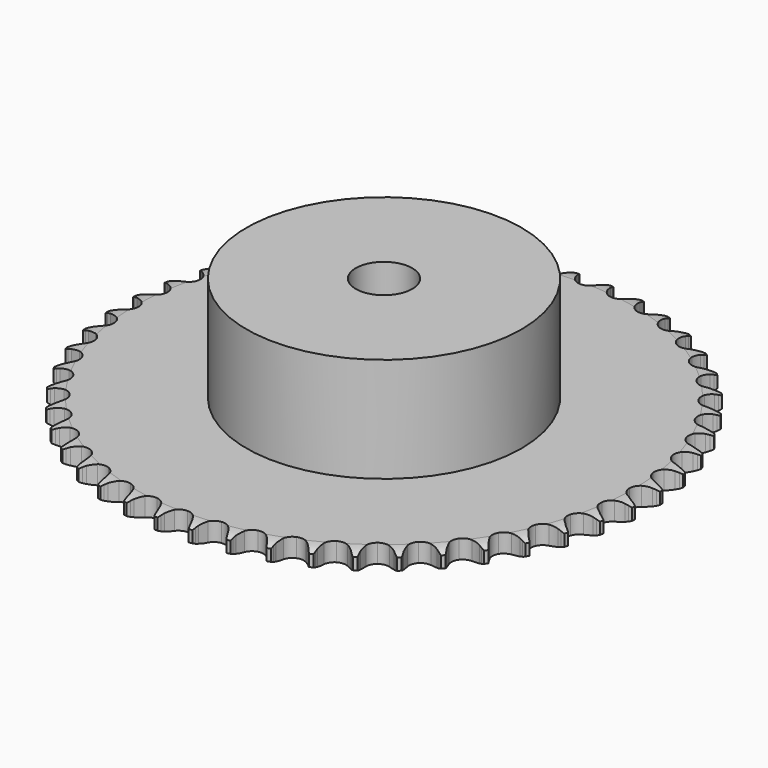
from build123d import *

# Parameters (mm, degrees)
PAD_DEPTH         = 5.3
SKETCH001_R       = 39
PAD001_DEPTH      = 35
SKETCH002_R       = 8
POCKET_DEPTH      = 0.001
POCKET_DEPTH_BACK = 35.001


with BuildPart() as part:
    # Sprocket → Pad (new body)
    with BuildSketch(Plane.XY):
        with BuildLine():
            ThreePointArc((-4.949679, 75.51751), (-4.428239, 74.767147), (-4.048686, 73.935952))
            Line((-4.048686, 73.935952), (-3.739672, 73.059272))
            ThreePointArc((-3.739672, 73.059272), (-3.250967, 71.941999), (-2.603989, 70.908293))
            ThreePointArc((-2.603989, 70.908293), (-1.459644, 69.937388), (0, 69.588642))
            ThreePointArc((0, 69.588642), (1.459644, 69.937388), (2.603989, 70.908293))
            ThreePointArc((2.603989, 70.908293), (3.250967, 71.941999), (3.739672, 73.059272))
            Line((3.739672, 73.059272), (4.048686, 73.935952))
            ThreePointArc((4.048686, 73.935952), (4.428239, 74.767147), (4.949679, 75.51751))
            ThreePointArc((4.949679, 75.51751), (5.368716, 74.705504), (5.636529, 73.83188))
            Line((5.636529, 73.83188), (5.82847, 72.922365))
            ThreePointArc((5.82847, 72.922365), (6.167161, 71.750862), (6.673677, 70.641551))
            ThreePointArc((6.673677, 70.641551), (7.681505, 69.529585), (9.08314, 68.993301))
            ThreePointArc((9.08314, 68.993301), (10.575817, 69.148542), (11.837101, 69.961774))
            Line((11.837101, 69.961774), (13.243827, 71.946114))
            ThreePointArc((13.243827, 71.946114), (13.442628, 72.366427), (13.664628, 72.774961))
            ThreePointArc((13.664628, 72.774961), (14.149426, 73.549502), (14.764347, 74.225384))
            ThreePointArc((14.764347, 74.225384), (15.073811, 73.365631), (15.225302, 72.464523))
            Line((15.225302, 72.464523), (15.296885, 71.537736))
            ThreePointArc((15.296885, 71.537736), (15.479767, 70.332047), (15.837156, 69.166113))
            ThreePointArc((15.837156, 69.166113), (16.69122, 67.932113), (18.010866, 67.217466))
            ThreePointArc((18.010866, 67.217466), (19.511036, 67.176545), (20.867677, 67.818189))
            Line((20.867677, 67.818189), (22.521376, 69.601939))
            ThreePointArc((22.521376, 69.601939), (22.773338, 69.992707), (23.046763, 70.368769))
            ThreePointArc((23.046763, 70.368769), (23.628512, 71.073405), (24.326393, 71.663242))
            ThreePointArc((24.326393, 71.663242), (24.520988, 70.77045), (24.553566, 69.857278))
            Line((24.553566, 69.857278), (24.503567, 68.929076))
            ThreePointArc((24.503567, 68.929076), (24.52751, 67.709832), (24.729656, 66.507224))
            ThreePointArc((24.729656, 66.507224), (25.415345, 65.172303), (26.63042, 64.291522))
            ThreePointArc((26.63042, 64.291522), (28.112415, 64.05514), (29.541201, 64.514217))
            Line((29.541201, 64.514217), (31.413579, 66.066855))
            ThreePointArc((31.413579, 66.066855), (31.714391, 66.421392), (32.034563, 66.758548))
            ThreePointArc((32.034563, 66.758548), (32.703308, 67.381223), (33.472207, 67.874921))
            ThreePointArc((33.472207, 67.874921), (33.548605, 66.964368), (33.461711, 66.054756))
            Line((33.461711, 66.054756), (33.290985, 65.141021))
            ThreePointArc((33.290985, 65.141021), (33.15558, 63.929083), (33.199025, 62.710378))
            ThreePointArc((33.199025, 62.710378), (33.704605, 61.297376), (34.794321, 60.265532))
            ThreePointArc((34.794321, 60.265532), (36.232782, 59.837733), (37.709267, 60.106388))
            Line((37.709267, 60.106388), (39.768287, 61.401349))
            ThreePointArc((39.768287, 61.401349), (40.112801, 61.713589), (40.474242, 62.00607))
            ThreePointArc((40.474242, 62.00607), (41.218541, 62.536129), (42.045303, 62.925242))
            ThreePointArc((42.045303, 62.925242), (42.002196, 62.012507), (41.797317, 61.122019))
            Line((41.797317, 61.122019), (41.508786, 60.238385))
            ThreePointArc((41.508786, 60.238385), (41.216349, 59.054489), (41.10035, 57.840539))
            ThreePointArc((41.10035, 57.840539), (41.417171, 56.373635), (42.362881, 55.208381))
            ThreePointArc((42.362881, 55.208381), (43.733197, 54.596485), (45.232117, 54.670123))
            Line((45.232117, 54.670123), (47.442548, 55.685249))
            ThreePointArc((47.442548, 55.685249), (47.82487, 55.94985), (48.221395, 56.192651))
            ThreePointArc((48.221395, 56.192651), (49.028514, 56.621024), (49.898992, 56.898895))
            ThreePointArc((49.898992, 56.898895), (49.737118, 55.999594), (49.41776, 55.143467))
            Line((49.41776, 55.143467), (49.016359, 54.305054))
            ThreePointArc((49.016359, 54.305054), (48.571895, 53.169456), (48.298436, 51.981033))
            ThreePointArc((48.298436, 51.981033), (48.421077, 50.485325), (49.2066, 49.2066))
            ThreePointArc((49.2066, 49.2066), (50.485325, 48.421077), (51.981033, 48.298436))
            Line((51.981033, 48.298436), (54.305054, 49.016359))
            ThreePointArc((54.305054, 49.016359), (54.718643, 49.228793), (55.143467, 49.41776))
            ThreePointArc((55.143467, 49.41776), (55.999594, 49.737118), (56.898895, 49.898992))
            ThreePointArc((56.898895, 49.898992), (56.621024, 49.028514), (56.192651, 48.221395))
            Line((56.192651, 48.221395), (55.685249, 47.442548))
            ThreePointArc((55.685249, 47.442548), (55.096362, 46.37468), (54.670123, 45.232117))
            ThreePointArc((54.670123, 45.232117), (54.596485, 43.733197), (55.208381, 42.362881))
            ThreePointArc((55.208381, 42.362881), (56.373635, 41.417171), (57.840539, 41.10035))
            Line((57.840539, 41.10035), (60.238385, 41.508786))
            ThreePointArc((60.238385, 41.508786), (60.676164, 41.665418), (61.122019, 41.797317))
            ThreePointArc((61.122019, 41.797317), (62.012507, 42.002196), (62.925242, 42.045303))
            ThreePointArc((62.925242, 42.045303), (62.536129, 41.218541), (62.00607, 40.474242))
            Line((62.00607, 40.474242), (61.401349, 39.768287))
            ThreePointArc((61.401349, 39.768287), (60.678116, 38.78642), (60.106388, 37.709267))
            ThreePointArc((60.106388, 37.709267), (59.837733, 36.232782), (60.265532, 34.794321))
            ThreePointArc((60.265532, 34.794321), (61.297376, 33.704605), (62.710378, 33.199025))
            Line((62.710378, 33.199025), (65.141021, 33.290985))
            ThreePointArc((65.141021, 33.290985), (65.595499, 33.389136), (66.054756, 33.461711))
            ThreePointArc((66.054756, 33.461711), (66.964368, 33.548605), (67.874921, 33.472207))
            ThreePointArc((67.874921, 33.472207), (67.381223, 32.703308), (66.758548, 32.034563))
            Line((66.758548, 32.034563), (66.066855, 31.413579))
            ThreePointArc((66.066855, 31.413579), (65.22165, 30.534513), (64.514217, 29.541201))
            ThreePointArc((64.514217, 29.541201), (64.05514, 28.112415), (64.291522, 26.63042))
            ThreePointArc((64.291522, 26.63042), (65.172303, 25.415345), (66.507224, 24.729656))
            Line((66.507224, 24.729656), (68.929076, 24.503567))
            ThreePointArc((68.929076, 24.503567), (69.392478, 24.541556), (69.857278, 24.553566))
            ThreePointArc((69.857278, 24.553566), (70.77045, 24.520988), (71.663242, 24.326393))
            ThreePointArc((71.663242, 24.326393), (71.073405, 23.628512), (70.368769, 23.046763))
            Line((70.368769, 23.046763), (69.601939, 22.521376))
            ThreePointArc((69.601939, 22.521376), (68.649223, 21.760152), (67.818189, 20.867677))
            ThreePointArc((67.818189, 20.867677), (67.176545, 19.511036), (67.217466, 18.010866))
            ThreePointArc((67.217466, 18.010866), (67.932113, 16.69122), (69.166113, 15.837156))
            Line((69.166113, 15.837156), (71.537736, 15.296885))
            ThreePointArc((71.537736, 15.296885), (72.002131, 15.274064), (72.464523, 15.225302))
            ThreePointArc((72.464523, 15.225302), (73.365631, 15.073811), (74.225384, 14.764347))
            ThreePointArc((74.225384, 14.764347), (73.549502, 14.149426), (72.774961, 13.664628))
            Line((72.774961, 13.664628), (71.946114, 13.243827))
            ThreePointArc((71.946114, 13.243827), (70.902189, 12.61347), (69.961774, 11.837101))
            ThreePointArc((69.961774, 11.837101), (69.148542, 10.575817), (68.993301, 9.08314))
            ThreePointArc((68.993301, 9.08314), (69.529585, 7.681505), (70.641551, 6.673677))
            Line((70.641551, 6.673677), (72.922365, 5.82847))
            ThreePointArc((72.922365, 5.82847), (73.379808, 5.745228), (73.83188, 5.636529))
            ThreePointArc((73.83188, 5.636529), (74.705504, 5.368716), (75.51751, 4.949679))
            ThreePointArc((75.51751, 4.949679), (74.767147, 4.428239), (73.935952, 4.048686))
            Line((73.935952, 4.048686), (73.059272, 3.739672))
            ThreePointArc((73.059272, 3.739672), (71.941999, 3.250967), (70.908293, 2.603989))
            ThreePointArc((70.908293, 2.603989), (69.937388, 1.459644), (69.588642, 0))
            ThreePointArc((69.588642, 0), (69.937388, -1.459644), (70.908293, -2.603989))
            Line((70.908293, -2.603989), (73.059272, -3.739672))
            ThreePointArc((73.059272, -3.739672), (73.501937, -3.88191), (73.935952, -4.048686))
            ThreePointArc((73.935952, -4.048686), (74.767147, -4.428239), (75.51751, -4.949679))
            ThreePointArc((75.51751, -4.949679), (74.705504, -5.368716), (73.83188, -5.636529))
            Line((73.83188, -5.636529), (72.922365, -5.82847))
            ThreePointArc((72.922365, -5.82847), (71.750862, -6.167161), (70.641551, -6.673677))
            ThreePointArc((70.641551, -6.673677), (69.529585, -7.681505), (68.993301, -9.08314))
            ThreePointArc((68.993301, -9.08314), (69.148542, -10.575817), (69.961774, -11.837101))
            Line((69.961774, -11.837101), (71.946114, -13.243827))
            ThreePointArc((71.946114, -13.243827), (72.366427, -13.442628), (72.774961, -13.664628))
            ThreePointArc((72.774961, -13.664628), (73.549502, -14.149426), (74.225384, -14.764347))
            ThreePointArc((74.225384, -14.764347), (73.365631, -15.073811), (72.464523, -15.225302))
            Line((72.464523, -15.225302), (71.537736, -15.296885))
            ThreePointArc((71.537736, -15.296885), (70.332047, -15.479767), (69.166113, -15.837156))
            ThreePointArc((69.166113, -15.837156), (67.932113, -16.69122), (67.217466, -18.010866))
            ThreePointArc((67.217466, -18.010866), (67.176545, -19.511036), (67.818189, -20.867677))
            Line((67.818189, -20.867677), (69.601939, -22.521376))
            ThreePointArc((69.601939, -22.521376), (69.992707, -22.773338), (70.368769, -23.046763))
            ThreePointArc((70.368769, -23.046763), (71.073405, -23.628512), (71.663242, -24.326393))
            ThreePointArc((71.663242, -24.326393), (70.77045, -24.520988), (69.857278, -24.553566))
            Line((69.857278, -24.553566), (68.929076, -24.503567))
            ThreePointArc((68.929076, -24.503567), (67.709832, -24.52751), (66.507224, -24.729656))
            ThreePointArc((66.507224, -24.729656), (65.172303, -25.415345), (64.291522, -26.63042))
            ThreePointArc((64.291522, -26.63042), (64.05514, -28.112415), (64.514217, -29.541201))
            Line((64.514217, -29.541201), (66.066855, -31.413579))
            ThreePointArc((66.066855, -31.413579), (66.421392, -31.714391), (66.758548, -32.034563))
            ThreePointArc((66.758548, -32.034563), (67.381223, -32.703308), (67.874921, -33.472207))
            ThreePointArc((67.874921, -33.472207), (66.964368, -33.548605), (66.054756, -33.461711))
            Line((66.054756, -33.461711), (65.141021, -33.290985))
            ThreePointArc((65.141021, -33.290985), (63.929083, -33.15558), (62.710378, -33.199025))
            ThreePointArc((62.710378, -33.199025), (61.297376, -33.704605), (60.265532, -34.794321))
            ThreePointArc((60.265532, -34.794321), (59.837733, -36.232782), (60.106388, -37.709267))
            Line((60.106388, -37.709267), (61.401349, -39.768287))
            ThreePointArc((61.401349, -39.768287), (61.713589, -40.112801), (62.00607, -40.474242))
            ThreePointArc((62.00607, -40.474242), (62.536129, -41.218541), (62.925242, -42.045303))
            ThreePointArc((62.925242, -42.045303), (62.012507, -42.002196), (61.122019, -41.797317))
            Line((61.122019, -41.797317), (60.238385, -41.508786))
            ThreePointArc((60.238385, -41.508786), (59.054489, -41.216349), (57.840539, -41.10035))
            ThreePointArc((57.840539, -41.10035), (56.373635, -41.417171), (55.208381, -42.362881))
            ThreePointArc((55.208381, -42.362881), (54.596485, -43.733197), (54.670123, -45.232117))
            Line((54.670123, -45.232117), (55.685249, -47.442548))
            ThreePointArc((55.685249, -47.442548), (55.94985, -47.82487), (56.192651, -48.221395))
            ThreePointArc((56.192651, -48.221395), (56.621024, -49.028514), (56.898895, -49.898992))
            ThreePointArc((56.898895, -49.898992), (55.999594, -49.737118), (55.143467, -49.41776))
            Line((55.143467, -49.41776), (54.305054, -49.016359))
            ThreePointArc((54.305054, -49.016359), (53.169456, -48.571895), (51.981033, -48.298436))
            ThreePointArc((51.981033, -48.298436), (50.485325, -48.421077), (49.2066, -49.2066))
            ThreePointArc((49.2066, -49.2066), (48.421077, -50.485325), (48.298436, -51.981033))
            Line((48.298436, -51.981033), (49.016359, -54.305054))
            ThreePointArc((49.016359, -54.305054), (49.228793, -54.718643), (49.41776, -55.143467))
            ThreePointArc((49.41776, -55.143467), (49.737118, -55.999594), (49.898992, -56.898895))
            ThreePointArc((49.898992, -56.898895), (49.028514, -56.621024), (48.221395, -56.192651))
            Line((48.221395, -56.192651), (47.442548, -55.685249))
            ThreePointArc((47.442548, -55.685249), (46.37468, -55.096362), (45.232117, -54.670123))
            ThreePointArc((45.232117, -54.670123), (43.733197, -54.596485), (42.362881, -55.208381))
            ThreePointArc((42.362881, -55.208381), (41.417171, -56.373635), (41.10035, -57.840539))
            Line((41.10035, -57.840539), (41.508786, -60.238385))
            ThreePointArc((41.508786, -60.238385), (41.665418, -60.676164), (41.797317, -61.122019))
            ThreePointArc((41.797317, -61.122019), (42.002196, -62.012507), (42.045303, -62.925242))
            ThreePointArc((42.045303, -62.925242), (41.218541, -62.536129), (40.474242, -62.00607))
            Line((40.474242, -62.00607), (39.768287, -61.401349))
            ThreePointArc((39.768287, -61.401349), (38.78642, -60.678116), (37.709267, -60.106388))
            ThreePointArc((37.709267, -60.106388), (36.232782, -59.837733), (34.794321, -60.265532))
            ThreePointArc((34.794321, -60.265532), (33.704605, -61.297376), (33.199025, -62.710378))
            Line((33.199025, -62.710378), (33.290985, -65.141021))
            ThreePointArc((33.290985, -65.141021), (33.389136, -65.595499), (33.461711, -66.054756))
            ThreePointArc((33.461711, -66.054756), (33.548605, -66.964368), (33.472207, -67.874921))
            ThreePointArc((33.472207, -67.874921), (32.703308, -67.381223), (32.034563, -66.758548))
            Line((32.034563, -66.758548), (31.413579, -66.066855))
            ThreePointArc((31.413579, -66.066855), (30.534513, -65.22165), (29.541201, -64.514217))
            ThreePointArc((29.541201, -64.514217), (28.112415, -64.05514), (26.63042, -64.291522))
            ThreePointArc((26.63042, -64.291522), (25.415345, -65.172303), (24.729656, -66.507224))
            Line((24.729656, -66.507224), (24.503567, -68.929076))
            ThreePointArc((24.503567, -68.929076), (24.541556, -69.392478), (24.553566, -69.857278))
            ThreePointArc((24.553566, -69.857278), (24.520988, -70.77045), (24.326393, -71.663242))
            ThreePointArc((24.326393, -71.663242), (23.628512, -71.073405), (23.046763, -70.368769))
            Line((23.046763, -70.368769), (22.521376, -69.601939))
            ThreePointArc((22.521376, -69.601939), (21.760152, -68.649223), (20.867677, -67.818189))
            ThreePointArc((20.867677, -67.818189), (19.511036, -67.176545), (18.010866, -67.217466))
            ThreePointArc((18.010866, -67.217466), (16.69122, -67.932113), (15.837156, -69.166113))
            Line((15.837156, -69.166113), (15.296885, -71.537736))
            ThreePointArc((15.296885, -71.537736), (15.274064, -72.002131), (15.225302, -72.464523))
            ThreePointArc((15.225302, -72.464523), (15.073811, -73.365631), (14.764347, -74.225384))
            ThreePointArc((14.764347, -74.225384), (14.149426, -73.549502), (13.664628, -72.774961))
            Line((13.664628, -72.774961), (13.243827, -71.946114))
            ThreePointArc((13.243827, -71.946114), (12.61347, -70.902189), (11.837101, -69.961774))
            ThreePointArc((11.837101, -69.961774), (10.575817, -69.148542), (9.08314, -68.993301))
            ThreePointArc((9.08314, -68.993301), (7.681505, -69.529585), (6.673677, -70.641551))
            Line((6.673677, -70.641551), (5.82847, -72.922365))
            ThreePointArc((5.82847, -72.922365), (5.745228, -73.379808), (5.636529, -73.83188))
            ThreePointArc((5.636529, -73.83188), (5.368716, -74.705504), (4.949679, -75.51751))
            ThreePointArc((4.949679, -75.51751), (4.428239, -74.767147), (4.048686, -73.935952))
            Line((4.048686, -73.935952), (3.739672, -73.059272))
            ThreePointArc((3.739672, -73.059272), (3.250967, -71.941999), (2.603989, -70.908293))
            ThreePointArc((2.603989, -70.908293), (1.459644, -69.937388), (0, -69.588642))
            ThreePointArc((0, -69.588642), (-1.459644, -69.937388), (-2.603989, -70.908293))
            Line((-2.603989, -70.908293), (-3.739672, -73.059272))
            ThreePointArc((-3.739672, -73.059272), (-3.88191, -73.501937), (-4.048686, -73.935952))
            ThreePointArc((-4.048686, -73.935952), (-4.428239, -74.767147), (-4.949679, -75.51751))
            ThreePointArc((-4.949679, -75.51751), (-5.368716, -74.705504), (-5.636529, -73.83188))
            Line((-5.636529, -73.83188), (-5.82847, -72.922365))
            ThreePointArc((-5.82847, -72.922365), (-6.167161, -71.750862), (-6.673677, -70.641551))
            ThreePointArc((-6.673677, -70.641551), (-7.681505, -69.529585), (-9.08314, -68.993301))
            ThreePointArc((-9.08314, -68.993301), (-10.575817, -69.148542), (-11.837101, -69.961774))
            Line((-11.837101, -69.961774), (-13.243827, -71.946114))
            ThreePointArc((-13.243827, -71.946114), (-13.442628, -72.366427), (-13.664628, -72.774961))
            ThreePointArc((-13.664628, -72.774961), (-14.149426, -73.549502), (-14.764347, -74.225384))
            ThreePointArc((-14.764347, -74.225384), (-15.073811, -73.365631), (-15.225302, -72.464523))
            Line((-15.225302, -72.464523), (-15.296885, -71.537736))
            ThreePointArc((-15.296885, -71.537736), (-15.479767, -70.332047), (-15.837156, -69.166113))
            ThreePointArc((-15.837156, -69.166113), (-16.69122, -67.932113), (-18.010866, -67.217466))
            ThreePointArc((-18.010866, -67.217466), (-19.511036, -67.176545), (-20.867677, -67.818189))
            Line((-20.867677, -67.818189), (-22.521376, -69.601939))
            ThreePointArc((-22.521376, -69.601939), (-22.773338, -69.992707), (-23.046763, -70.368769))
            ThreePointArc((-23.046763, -70.368769), (-23.628512, -71.073405), (-24.326393, -71.663242))
            ThreePointArc((-24.326393, -71.663242), (-24.520988, -70.77045), (-24.553566, -69.857278))
            Line((-24.553566, -69.857278), (-24.503567, -68.929076))
            ThreePointArc((-24.503567, -68.929076), (-24.52751, -67.709832), (-24.729656, -66.507224))
            ThreePointArc((-24.729656, -66.507224), (-25.415345, -65.172303), (-26.63042, -64.291522))
            ThreePointArc((-26.63042, -64.291522), (-28.112415, -64.05514), (-29.541201, -64.514217))
            Line((-29.541201, -64.514217), (-31.413579, -66.066855))
            ThreePointArc((-31.413579, -66.066855), (-31.714391, -66.421392), (-32.034563, -66.758548))
            ThreePointArc((-32.034563, -66.758548), (-32.703308, -67.381223), (-33.472207, -67.874921))
            ThreePointArc((-33.472207, -67.874921), (-33.548605, -66.964368), (-33.461711, -66.054756))
            Line((-33.461711, -66.054756), (-33.290985, -65.141021))
            ThreePointArc((-33.290985, -65.141021), (-33.15558, -63.929083), (-33.199025, -62.710378))
            ThreePointArc((-33.199025, -62.710378), (-33.704605, -61.297376), (-34.794321, -60.265532))
            ThreePointArc((-34.794321, -60.265532), (-36.232782, -59.837733), (-37.709267, -60.106388))
            Line((-37.709267, -60.106388), (-39.768287, -61.401349))
            ThreePointArc((-39.768287, -61.401349), (-40.112801, -61.713589), (-40.474242, -62.00607))
            ThreePointArc((-40.474242, -62.00607), (-41.218541, -62.536129), (-42.045303, -62.925242))
            ThreePointArc((-42.045303, -62.925242), (-42.002196, -62.012507), (-41.797317, -61.122019))
            Line((-41.797317, -61.122019), (-41.508786, -60.238385))
            ThreePointArc((-41.508786, -60.238385), (-41.216349, -59.054489), (-41.10035, -57.840539))
            ThreePointArc((-41.10035, -57.840539), (-41.417171, -56.373635), (-42.362881, -55.208381))
            ThreePointArc((-42.362881, -55.208381), (-43.733197, -54.596485), (-45.232117, -54.670123))
            Line((-45.232117, -54.670123), (-47.442548, -55.685249))
            ThreePointArc((-47.442548, -55.685249), (-47.82487, -55.94985), (-48.221395, -56.192651))
            ThreePointArc((-48.221395, -56.192651), (-49.028514, -56.621024), (-49.898992, -56.898895))
            ThreePointArc((-49.898992, -56.898895), (-49.737118, -55.999594), (-49.41776, -55.143467))
            Line((-49.41776, -55.143467), (-49.016359, -54.305054))
            ThreePointArc((-49.016359, -54.305054), (-48.571895, -53.169456), (-48.298436, -51.981033))
            ThreePointArc((-48.298436, -51.981033), (-48.421077, -50.485325), (-49.2066, -49.2066))
            ThreePointArc((-49.2066, -49.2066), (-50.485325, -48.421077), (-51.981033, -48.298436))
            Line((-51.981033, -48.298436), (-54.305054, -49.016359))
            ThreePointArc((-54.305054, -49.016359), (-54.718643, -49.228793), (-55.143467, -49.41776))
            ThreePointArc((-55.143467, -49.41776), (-55.999594, -49.737118), (-56.898895, -49.898992))
            ThreePointArc((-56.898895, -49.898992), (-56.621024, -49.028514), (-56.192651, -48.221395))
            Line((-56.192651, -48.221395), (-55.685249, -47.442548))
            ThreePointArc((-55.685249, -47.442548), (-55.096362, -46.37468), (-54.670123, -45.232117))
            ThreePointArc((-54.670123, -45.232117), (-54.596485, -43.733197), (-55.208381, -42.362881))
            ThreePointArc((-55.208381, -42.362881), (-56.373635, -41.417171), (-57.840539, -41.10035))
            Line((-57.840539, -41.10035), (-60.238385, -41.508786))
            ThreePointArc((-60.238385, -41.508786), (-60.676164, -41.665418), (-61.122019, -41.797317))
            ThreePointArc((-61.122019, -41.797317), (-62.012507, -42.002196), (-62.925242, -42.045303))
            ThreePointArc((-62.925242, -42.045303), (-62.536129, -41.218541), (-62.00607, -40.474242))
            Line((-62.00607, -40.474242), (-61.401349, -39.768287))
            ThreePointArc((-61.401349, -39.768287), (-60.678116, -38.78642), (-60.106388, -37.709267))
            ThreePointArc((-60.106388, -37.709267), (-59.837733, -36.232782), (-60.265532, -34.794321))
            ThreePointArc((-60.265532, -34.794321), (-61.297376, -33.704605), (-62.710378, -33.199025))
            Line((-62.710378, -33.199025), (-65.141021, -33.290985))
            ThreePointArc((-65.141021, -33.290985), (-65.595499, -33.389136), (-66.054756, -33.461711))
            ThreePointArc((-66.054756, -33.461711), (-66.964368, -33.548605), (-67.874921, -33.472207))
            ThreePointArc((-67.874921, -33.472207), (-67.381223, -32.703308), (-66.758548, -32.034563))
            Line((-66.758548, -32.034563), (-66.066855, -31.413579))
            ThreePointArc((-66.066855, -31.413579), (-65.22165, -30.534513), (-64.514217, -29.541201))
            ThreePointArc((-64.514217, -29.541201), (-64.05514, -28.112415), (-64.291522, -26.63042))
            ThreePointArc((-64.291522, -26.63042), (-65.172303, -25.415345), (-66.507224, -24.729656))
            Line((-66.507224, -24.729656), (-68.929076, -24.503567))
            ThreePointArc((-68.929076, -24.503567), (-69.392478, -24.541556), (-69.857278, -24.553566))
            ThreePointArc((-69.857278, -24.553566), (-70.77045, -24.520988), (-71.663242, -24.326393))
            ThreePointArc((-71.663242, -24.326393), (-71.073405, -23.628512), (-70.368769, -23.046763))
            Line((-70.368769, -23.046763), (-69.601939, -22.521376))
            ThreePointArc((-69.601939, -22.521376), (-68.649223, -21.760152), (-67.818189, -20.867677))
            ThreePointArc((-67.818189, -20.867677), (-67.176545, -19.511036), (-67.217466, -18.010866))
            ThreePointArc((-67.217466, -18.010866), (-67.932113, -16.69122), (-69.166113, -15.837156))
            Line((-69.166113, -15.837156), (-71.537736, -15.296885))
            ThreePointArc((-71.537736, -15.296885), (-72.002131, -15.274064), (-72.464523, -15.225302))
            ThreePointArc((-72.464523, -15.225302), (-73.365631, -15.073811), (-74.225384, -14.764347))
            ThreePointArc((-74.225384, -14.764347), (-73.549502, -14.149426), (-72.774961, -13.664628))
            Line((-72.774961, -13.664628), (-71.946114, -13.243827))
            ThreePointArc((-71.946114, -13.243827), (-70.902189, -12.61347), (-69.961774, -11.837101))
            ThreePointArc((-69.961774, -11.837101), (-69.148542, -10.575817), (-68.993301, -9.08314))
            ThreePointArc((-68.993301, -9.08314), (-69.529585, -7.681505), (-70.641551, -6.673677))
            Line((-70.641551, -6.673677), (-72.922365, -5.82847))
            ThreePointArc((-72.922365, -5.82847), (-73.379808, -5.745228), (-73.83188, -5.636529))
            ThreePointArc((-73.83188, -5.636529), (-74.705504, -5.368716), (-75.51751, -4.949679))
            ThreePointArc((-75.51751, -4.949679), (-74.767147, -4.428239), (-73.935952, -4.048686))
            Line((-73.935952, -4.048686), (-73.059272, -3.739672))
            ThreePointArc((-73.059272, -3.739672), (-71.941999, -3.250967), (-70.908293, -2.603989))
            ThreePointArc((-70.908293, -2.603989), (-69.937388, -1.459644), (-69.588642, 0))
            ThreePointArc((-69.588642, 0), (-69.937388, 1.459644), (-70.908293, 2.603989))
            Line((-70.908293, 2.603989), (-73.059272, 3.739672))
            ThreePointArc((-73.059272, 3.739672), (-73.501937, 3.88191), (-73.935952, 4.048686))
            ThreePointArc((-73.935952, 4.048686), (-74.767147, 4.428239), (-75.51751, 4.949679))
            ThreePointArc((-75.51751, 4.949679), (-74.705504, 5.368716), (-73.83188, 5.636529))
            Line((-73.83188, 5.636529), (-72.922365, 5.82847))
            ThreePointArc((-72.922365, 5.82847), (-71.750862, 6.167161), (-70.641551, 6.673677))
            ThreePointArc((-70.641551, 6.673677), (-69.529585, 7.681505), (-68.993301, 9.08314))
            ThreePointArc((-68.993301, 9.08314), (-69.148542, 10.575817), (-69.961774, 11.837101))
            Line((-69.961774, 11.837101), (-71.946114, 13.243827))
            ThreePointArc((-71.946114, 13.243827), (-72.366427, 13.442628), (-72.774961, 13.664628))
            ThreePointArc((-72.774961, 13.664628), (-73.549502, 14.149426), (-74.225384, 14.764347))
            ThreePointArc((-74.225384, 14.764347), (-73.365631, 15.073811), (-72.464523, 15.225302))
            Line((-72.464523, 15.225302), (-71.537736, 15.296885))
            ThreePointArc((-71.537736, 15.296885), (-70.332047, 15.479767), (-69.166113, 15.837156))
            ThreePointArc((-69.166113, 15.837156), (-67.932113, 16.69122), (-67.217466, 18.010866))
            ThreePointArc((-67.217466, 18.010866), (-67.176545, 19.511036), (-67.818189, 20.867677))
            Line((-67.818189, 20.867677), (-69.601939, 22.521376))
            ThreePointArc((-69.601939, 22.521376), (-69.992707, 22.773338), (-70.368769, 23.046763))
            ThreePointArc((-70.368769, 23.046763), (-71.073405, 23.628512), (-71.663242, 24.326393))
            ThreePointArc((-71.663242, 24.326393), (-70.77045, 24.520988), (-69.857278, 24.553566))
            Line((-69.857278, 24.553566), (-68.929076, 24.503567))
            ThreePointArc((-68.929076, 24.503567), (-67.709832, 24.52751), (-66.507224, 24.729656))
            ThreePointArc((-66.507224, 24.729656), (-65.172303, 25.415345), (-64.291522, 26.63042))
            ThreePointArc((-64.291522, 26.63042), (-64.05514, 28.112415), (-64.514217, 29.541201))
            Line((-64.514217, 29.541201), (-66.066855, 31.413579))
            ThreePointArc((-66.066855, 31.413579), (-66.421392, 31.714391), (-66.758548, 32.034563))
            ThreePointArc((-66.758548, 32.034563), (-67.381223, 32.703308), (-67.874921, 33.472207))
            ThreePointArc((-67.874921, 33.472207), (-66.964368, 33.548605), (-66.054756, 33.461711))
            Line((-66.054756, 33.461711), (-65.141021, 33.290985))
            ThreePointArc((-65.141021, 33.290985), (-63.929083, 33.15558), (-62.710378, 33.199025))
            ThreePointArc((-62.710378, 33.199025), (-61.297376, 33.704605), (-60.265532, 34.794321))
            ThreePointArc((-60.265532, 34.794321), (-59.837733, 36.232782), (-60.106388, 37.709267))
            Line((-60.106388, 37.709267), (-61.401349, 39.768287))
            ThreePointArc((-61.401349, 39.768287), (-61.713589, 40.112801), (-62.00607, 40.474242))
            ThreePointArc((-62.00607, 40.474242), (-62.536129, 41.218541), (-62.925242, 42.045303))
            ThreePointArc((-62.925242, 42.045303), (-62.012507, 42.002196), (-61.122019, 41.797317))
            Line((-61.122019, 41.797317), (-60.238385, 41.508786))
            ThreePointArc((-60.238385, 41.508786), (-59.054489, 41.216349), (-57.840539, 41.10035))
            ThreePointArc((-57.840539, 41.10035), (-56.373635, 41.417171), (-55.208381, 42.362881))
            ThreePointArc((-55.208381, 42.362881), (-54.596485, 43.733197), (-54.670123, 45.232117))
            Line((-54.670123, 45.232117), (-55.685249, 47.442548))
            ThreePointArc((-55.685249, 47.442548), (-55.94985, 47.82487), (-56.192651, 48.221395))
            ThreePointArc((-56.192651, 48.221395), (-56.621024, 49.028514), (-56.898895, 49.898992))
            ThreePointArc((-56.898895, 49.898992), (-55.999594, 49.737118), (-55.143467, 49.41776))
            Line((-55.143467, 49.41776), (-54.305054, 49.016359))
            ThreePointArc((-54.305054, 49.016359), (-53.169456, 48.571895), (-51.981033, 48.298436))
            ThreePointArc((-51.981033, 48.298436), (-50.485325, 48.421077), (-49.2066, 49.2066))
            ThreePointArc((-49.2066, 49.2066), (-48.421077, 50.485325), (-48.298436, 51.981033))
            Line((-48.298436, 51.981033), (-49.016359, 54.305054))
            ThreePointArc((-49.016359, 54.305054), (-49.228793, 54.718643), (-49.41776, 55.143467))
            ThreePointArc((-49.41776, 55.143467), (-49.737118, 55.999594), (-49.898992, 56.898895))
            ThreePointArc((-49.898992, 56.898895), (-49.028514, 56.621024), (-48.221395, 56.192651))
            Line((-48.221395, 56.192651), (-47.442548, 55.685249))
            ThreePointArc((-47.442548, 55.685249), (-46.37468, 55.096362), (-45.232117, 54.670123))
            ThreePointArc((-45.232117, 54.670123), (-43.733197, 54.596485), (-42.362881, 55.208381))
            ThreePointArc((-42.362881, 55.208381), (-41.417171, 56.373635), (-41.10035, 57.840539))
            Line((-41.10035, 57.840539), (-41.508786, 60.238385))
            ThreePointArc((-41.508786, 60.238385), (-41.665418, 60.676164), (-41.797317, 61.122019))
            ThreePointArc((-41.797317, 61.122019), (-42.002196, 62.012507), (-42.045303, 62.925242))
            ThreePointArc((-42.045303, 62.925242), (-41.218541, 62.536129), (-40.474242, 62.00607))
            Line((-40.474242, 62.00607), (-39.768287, 61.401349))
            ThreePointArc((-39.768287, 61.401349), (-38.78642, 60.678116), (-37.709267, 60.106388))
            ThreePointArc((-37.709267, 60.106388), (-36.232782, 59.837733), (-34.794321, 60.265532))
            ThreePointArc((-34.794321, 60.265532), (-33.704605, 61.297376), (-33.199025, 62.710378))
            Line((-33.199025, 62.710378), (-33.290985, 65.141021))
            ThreePointArc((-33.290985, 65.141021), (-33.389136, 65.595499), (-33.461711, 66.054756))
            ThreePointArc((-33.461711, 66.054756), (-33.548605, 66.964368), (-33.472207, 67.874921))
            ThreePointArc((-33.472207, 67.874921), (-32.703308, 67.381223), (-32.034563, 66.758548))
            Line((-32.034563, 66.758548), (-31.413579, 66.066855))
            ThreePointArc((-31.413579, 66.066855), (-30.534513, 65.22165), (-29.541201, 64.514217))
            ThreePointArc((-29.541201, 64.514217), (-28.112415, 64.05514), (-26.63042, 64.291522))
            ThreePointArc((-26.63042, 64.291522), (-25.415345, 65.172303), (-24.729656, 66.507224))
            Line((-24.729656, 66.507224), (-24.503567, 68.929076))
            ThreePointArc((-24.503567, 68.929076), (-24.541556, 69.392478), (-24.553566, 69.857278))
            ThreePointArc((-24.553566, 69.857278), (-24.520988, 70.77045), (-24.326393, 71.663242))
            ThreePointArc((-24.326393, 71.663242), (-23.628512, 71.073405), (-23.046763, 70.368769))
            Line((-23.046763, 70.368769), (-22.521376, 69.601939))
            ThreePointArc((-22.521376, 69.601939), (-21.760152, 68.649223), (-20.867677, 67.818189))
            ThreePointArc((-20.867677, 67.818189), (-19.511036, 67.176545), (-18.010866, 67.217466))
            ThreePointArc((-18.010866, 67.217466), (-16.69122, 67.932113), (-15.837156, 69.166113))
            Line((-15.837156, 69.166113), (-15.296885, 71.537736))
            ThreePointArc((-15.296885, 71.537736), (-15.274064, 72.002131), (-15.225302, 72.464523))
            ThreePointArc((-15.225302, 72.464523), (-15.073811, 73.365631), (-14.764347, 74.225384))
            ThreePointArc((-14.764347, 74.225384), (-14.149426, 73.549502), (-13.664628, 72.774961))
            Line((-13.664628, 72.774961), (-13.243827, 71.946114))
            ThreePointArc((-13.243827, 71.946114), (-12.61347, 70.902189), (-11.837101, 69.961774))
            ThreePointArc((-11.837101, 69.961774), (-10.575817, 69.148542), (-9.08314, 68.993301))
            ThreePointArc((-9.08314, 68.993301), (-7.681505, 69.529585), (-6.673677, 70.641551))
            Line((-6.673677, 70.641551), (-5.82847, 72.922365))
            ThreePointArc((-5.82847, 72.922365), (-5.745228, 73.379808), (-5.636529, 73.83188))
            ThreePointArc((-5.636529, 73.83188), (-5.368716, 74.705504), (-4.949679, 75.51751))
        make_face()
    extrude(amount=PAD_DEPTH)

    # Sketch → Groove (revolve, cut)
    with BuildSketch(Plane.XZ):
        with BuildLine():
            Line((70.491101, 0), (74.85, 0))
            Line((79.208899, 0), (74.85, 0))
            Line((79.208899, 5.3), (79.208899, 0))
            Line((74.85, 5.3), (79.208899, 5.3))
            Line((70.491101, 5.3), (74.85, 5.3))
            ThreePointArc((74.85, 4.3), (72.727169, 5.046794), (70.491101, 5.3))
            Line((74.85, 1), (74.85, 4.3))
            ThreePointArc((70.491101, 0), (72.727169, 0.253206), (74.85, 1))
        make_face()
    revolve(axis=Axis((0, 0, 0), (0, 0, 1)), mode=Mode.SUBTRACT)

    # Sketch001 → Pad001 (join)
    with BuildSketch(Plane.XY):
        Circle(SKETCH001_R)
    extrude(amount=PAD001_DEPTH)

    # Sketch002 → Pocket (cut, two sides)
    with BuildSketch(Plane.XY) as pocket_sk:
        Circle(SKETCH002_R)
    extrude(amount=-POCKET_DEPTH, mode=Mode.SUBTRACT)
    extrude(pocket_sk.sketch, amount=POCKET_DEPTH_BACK, mode=Mode.SUBTRACT)


solid = part.part
